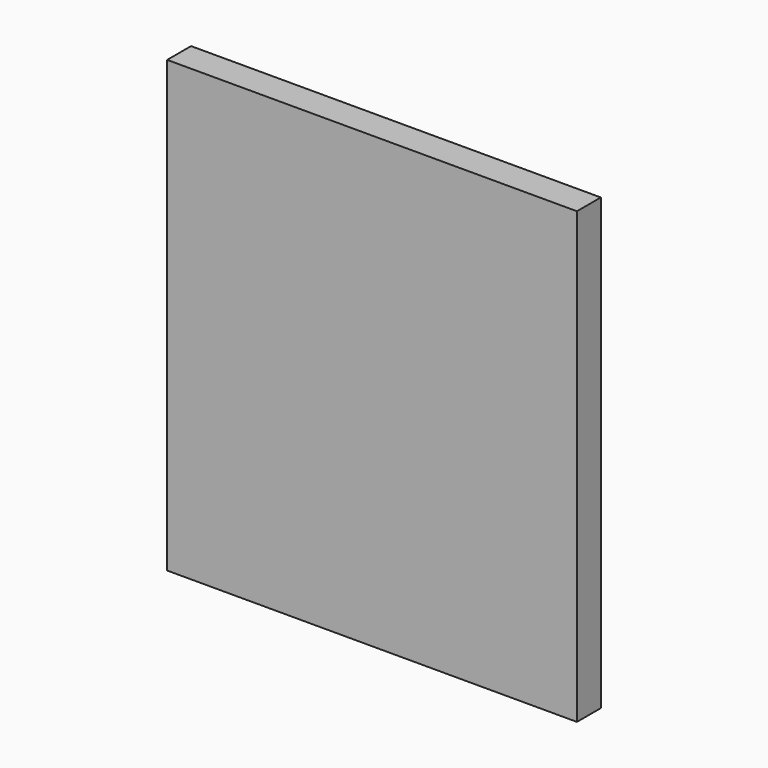
from build123d import *

# Parameters (mm, degrees)
SKETCH_W  = 247
SKETCH_H  = 271
PAD_DEPTH = 18


with BuildPart() as part:
    # Sketch → Pad (new body)
    with BuildSketch(Plane.XZ):
        with Locations((-123.5, 135.5)):
            Rectangle(SKETCH_W, SKETCH_H)
    extrude(amount=PAD_DEPTH)


solid = part.part
